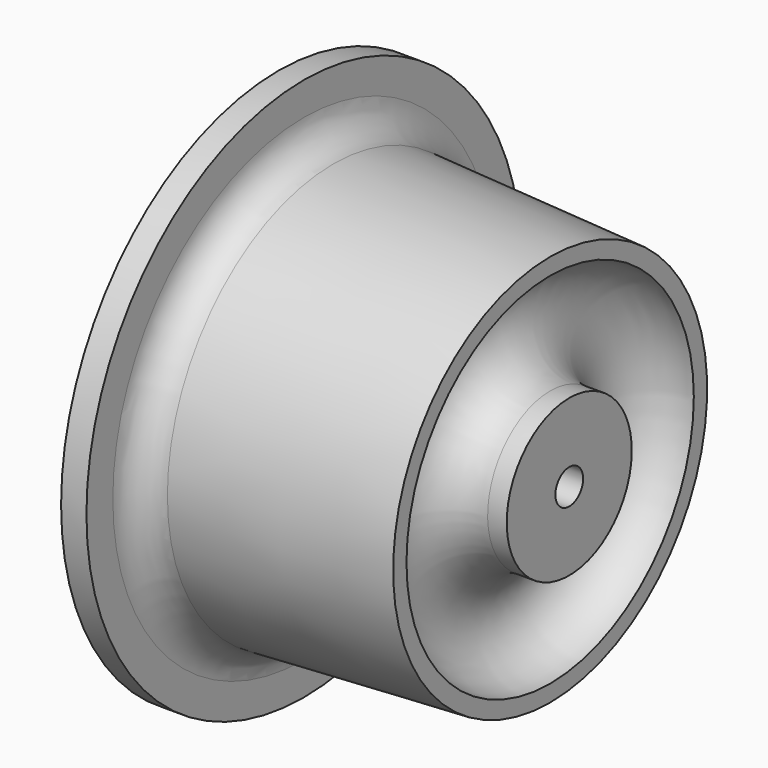
from build123d import *

# Parameters (mm, degrees)
F5_DEPTH = 69.85
F6_DEPTH = 19.05


with BuildPart() as f1:
    # F0 (on Front) → F1 (revolve)
    with BuildSketch(Plane.XZ):
        Polygon((0, 28.575), (0, 6.35), (116.84, 6.35), (116.84, 28.575), (109.855, 28.575), (6.985, 28.575), align=None)
        with BuildLine():
            Line((6.985, 68.8975), (6.985, 28.575))
            Line((6.985, 28.575), (109.855, 28.575))
            Line((109.855, 28.575), (109.855, 71.755))
            Line((109.855, 71.755), (30.635692479, 75.9067079835))
            ThreePointArc((30.635692479, 75.9067079835), (22.9486214373, 79.4504962732), (19.812, 87.3125))
            Line((19.812, 87.3125), (19.812, 99.3775))
            Line((19.812, 99.3775), (10.541, 99.3775))
            Line((10.541, 99.3775), (6.985, 76.1365))
            Line((6.985, 76.1365), (6.985, 68.8975))
        make_face()
    revolve(axis=Axis((45.9916256368, 0, 0), (1, 0, 0)))

    # F2 (on Front) → F3 (revolve, cut)
    with BuildSketch(Plane.XZ):
        with BuildLine():
            ThreePointArc((109.855, 65.659), (91.313, 47.117), (109.855, 28.575))
            Line((109.855, 28.575), (109.855, 65.659))
        make_face()
    revolve(axis=Axis((97.4680353308, 0, 0), (-1, 0, 0)), mode=Mode.SUBTRACT)

    # F4 (on face) → F5 (cut)
    with BuildSketch(Plane(origin=(6.985, 0, 0), x_dir=(0, -1, 0), z_dir=(-1, 0, 0))):
        with BuildLine():
            ThreePointArc((3.6195, -69.6925699625), (49.3465048824, -49.3465048824), (69.6925699625, -3.6195))
            Line((69.6925699625, -3.6195), (28.3448380618, -3.6195))
            ThreePointArc((28.3448380618, -3.6195), (20.2055762724, -20.2055762724), (3.6195, -28.3448380618))
            Line((3.6195, -28.3448380618), (3.6195, -69.6925699625))
        make_face()
        with BuildLine():
            ThreePointArc((-69.6925699625, -3.6195), (-49.3465048824, -49.3465048824), (-3.6195, -69.6925699625))
            Line((-3.6195, -69.6925699625), (-3.6195, -28.3448380618))
            ThreePointArc((-3.6195, -28.3448380618), (-20.2055762724, -20.2055762724), (-28.3448380618, -3.6195))
            Line((-28.3448380618, -3.6195), (-69.6925699625, -3.6195))
        make_face()
        with BuildLine():
            Line((-3.6195, 28.3448380618), (-3.6195, 69.6925699625))
            ThreePointArc((-3.6195, 69.6925699625), (-49.3465048824, 49.3465048824), (-69.6925699625, 3.6195))
            Line((-69.6925699625, 3.6195), (-28.3448380618, 3.6195))
            ThreePointArc((-28.3448380618, 3.6195), (-20.2055762724, 20.2055762724), (-3.6195, 28.3448380618))
        make_face()
        with BuildLine():
            Line((28.3448380618, 3.6195), (69.6925699625, 3.6195))
            ThreePointArc((69.6925699625, 3.6195), (49.3465048824, 49.3465048824), (3.6195, 69.6925699625))
            Line((3.6195, 69.6925699625), (3.6195, 28.3448380618))
            ThreePointArc((3.6195, 28.3448380618), (20.2055762724, 20.2055762724), (28.3448380618, 3.6195))
        make_face()
    extrude(amount=-F5_DEPTH, mode=Mode.SUBTRACT)

    # F4 (on face) → F6 (cut)
    with BuildSketch(Plane(origin=(6.985, 0, 0), x_dir=(0, -1, 0), z_dir=(-1, 0, 0))):
        with BuildLine():
            Line((-28.3448380618, 3.6195), (-69.6925699625, 3.6195))
            ThreePointArc((-69.6925699625, 3.6195), (-69.7864964604, 0), (-69.6925699625, -3.6195))
            Line((-69.6925699625, -3.6195), (-28.3448380618, -3.6195))
            ThreePointArc((-28.3448380618, -3.6195), (-28.575, 0), (-28.3448380618, 3.6195))
        make_face()
        with BuildLine():
            Line((3.6195, 28.3448380618), (3.6195, 69.6925699625))
            ThreePointArc((3.6195, 69.6925699625), (0, 69.7864964604), (-3.6195, 69.6925699625))
            Line((-3.6195, 69.6925699625), (-3.6195, 28.3448380618))
            ThreePointArc((-3.6195, 28.3448380618), (0, 28.575), (3.6195, 28.3448380618))
        make_face()
        with BuildLine():
            ThreePointArc((69.7864964604, 0), (69.7630108841, 1.8103592487), (69.6925699625, 3.6195))
            Line((69.6925699625, 3.6195), (28.3448380618, 3.6195))
            ThreePointArc((28.3448380618, 3.6195), (28.5174014649, 1.8134052752), (28.575, 0))
            ThreePointArc((28.575, 0), (28.5174014649, -1.8134052752), (28.3448380618, -3.6195))
            Line((28.3448380618, -3.6195), (69.6925699625, -3.6195))
            ThreePointArc((69.6925699625, -3.6195), (69.7630108841, -1.8103592487), (69.7864964604, 0))
        make_face()
        with BuildLine():
            ThreePointArc((-3.6195, -69.6925699625), (0, -69.7864964604), (3.6195, -69.6925699625))
            Line((3.6195, -69.6925699625), (3.6195, -28.3448380618))
            ThreePointArc((3.6195, -28.3448380618), (0, -28.575), (-3.6195, -28.3448380618))
            Line((-3.6195, -28.3448380618), (-3.6195, -69.6925699625))
        make_face()
    extrude(amount=-F6_DEPTH, mode=Mode.SUBTRACT)


solid = f1.part
